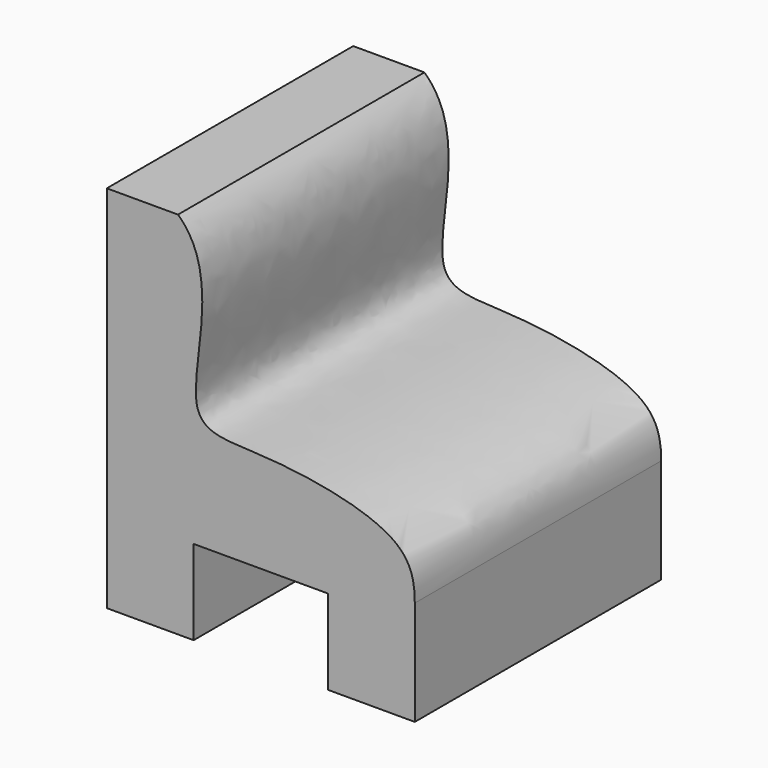
from build123d import *


with BuildPart() as f2:
    # F2: sweep along a path in F1
    with BuildLine(Plane.XY) as f2_path:
        Line((-30.4791685194, 0), (-30.4791685194, 100))
    # F0 (on Front) → F2 (sweep)
    with BuildSketch(Plane.XZ):
        with BuildLine():
            Line((21.8097008765, -60), (50, -60))
            Line((50, -60), (50, -26.0291449229))
            add(Edge.make_bspline(
                [(-26.8818349299, 60), (-11.7228051932, 46.2937986543), (-31.2466336511, -0.9604997543), (1.1890247146, 1.4610274991), (47.6008776822, -6.2097485311), (50, -20.3193232005), (50, -26.0291449229)],
                knots=[0, 0, 0, 0, 0.3221745777, 0.5267055325, 0.8229951481, 1, 1, 1, 1], degree=3))
            Line((-26.8818349299, 60), (-50, 60))
            Line((-50, 60), (-50, -60))
            Line((-50, -60), (-21.8097008765, -60))
            Line((-21.8097008765, -60), (-21.8097008765, -32.4681201577))
            Line((-21.8097008765, -32.4681201577), (21.8097008765, -32.4681201577))
            Line((21.8097008765, -32.4681201577), (21.8097008765, -60))
        make_face()
    sweep(path=f2_path.line)


solid = f2.part
